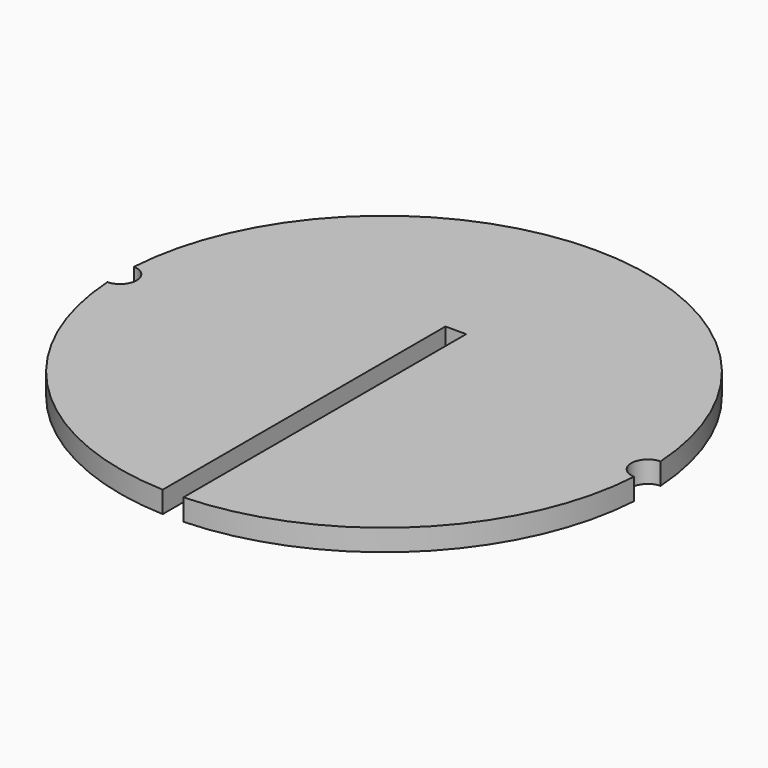
from build123d import *

# Parameters (mm, degrees)
F1_DEPTH = 2.6


with BuildPart() as f1:
    # F0 (on Top) → F1 (new body)
    with BuildSketch(Plane.XY):
        with BuildLine():
            ThreePointArc((31.762156, -1.999012), (29.825, 0), (31.762156, 1.999012))
            ThreePointArc((31.762156, 1.999012), (0, 31.825), (-31.762156, 1.999012))
            ThreePointArc((-31.762156, 1.999012), (-30.38874, 1.391818), (-29.825, 0))
            ThreePointArc((-29.825, 0), (-30.38874, -1.391818), (-31.762156, -1.999012))
            ThreePointArc((-31.762156, -1.999012), (-22.236949, -22.767273), (-1.25, -31.800442))
            Line((-1.25, -31.800442), (-1.25, 10.825))
            Line((-1.25, 10.825), (1.25, 10.825))
            Line((1.25, 10.825), (1.25, -31.800442))
            ThreePointArc((1.25, -31.800442), (22.236949, -22.767273), (31.762156, -1.999012))
        make_face()
    extrude(amount=F1_DEPTH)


solid = f1.part
